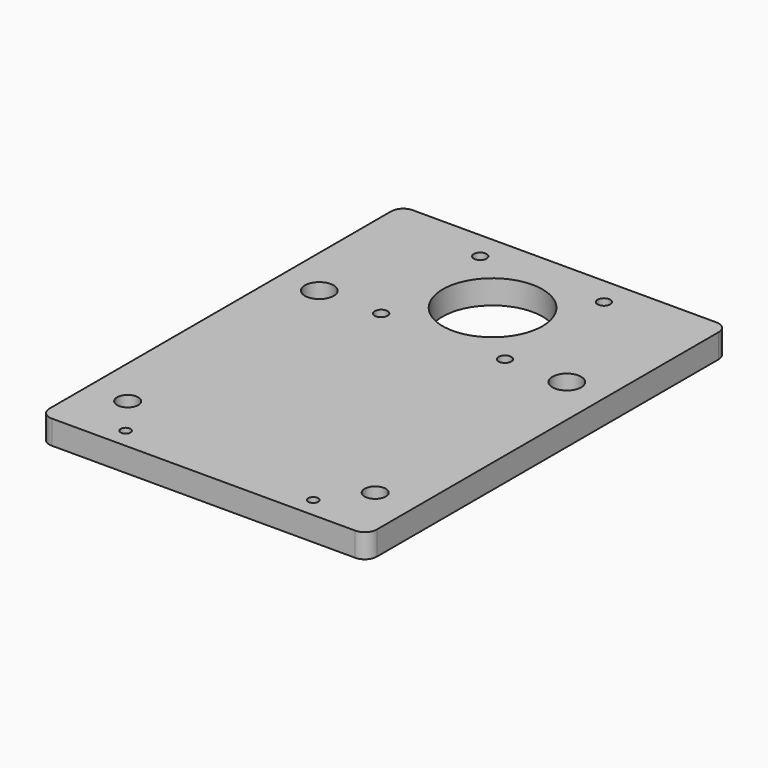
from build123d import *

# Parameters (mm, degrees)
PAD010_DEPTH    = 6
SKETCH047_R     = 1.6
HOLE028_DEPTH   = 25
SKETCH050_R     = 12.5
POCKET006_DEPTH = 6.001
SKETCH048_R     = 3.6
HOLE029_DEPTH   = 25
SKETCH049_R     = 2.65
HOLE030_DEPTH   = 25
SKETCH063_R     = 1.25
HOLE032_DEPTH   = 25


with BuildPart() as part:
    # Sketch060 → Pad010 (new body)
    with BuildSketch(Plane.XY):
        with BuildLine():
            Line((-38, -8.985199), (38, -8.985199))
            ThreePointArc((41, -11.985199), (40.12132, -9.863879), (38, -8.985199))
            Line((41, -11.985199), (41, -119))
            ThreePointArc((38, -122), (40.12132, -121.12132), (41, -119))
            Line((38, -122), (-38, -122))
            ThreePointArc((-41, -119), (-40.12132, -121.12132), (-38, -122))
            Line((-41, -119), (-41, -11.985199))
            ThreePointArc((-38, -8.985199), (-40.12132, -9.863879), (-41, -11.985199))
        make_face()
    extrude(amount=PAD010_DEPTH)

    # Sketch047 (on Face10 of Pad010) → Hole028 (cut)
    with BuildSketch(Plane.XY.offset(6)):
        with Locations((-15.5, -16)):
            Circle(SKETCH047_R)
        with Locations((-15.5, -47)):
            Circle(SKETCH047_R)
        with Locations((15.5, -16)):
            Circle(SKETCH047_R)
        with Locations((15.5, -47)):
            Circle(SKETCH047_R)
    extrude(amount=-HOLE028_DEPTH, mode=Mode.SUBTRACT)

    # Sketch050 (on Face5 of Hole028) → Pocket006 (cut, through all)
    with BuildSketch(Plane.XY.offset(6)):
        with Locations((0, -31.5)):
            Circle(SKETCH050_R)
    extrude(amount=-POCKET006_DEPTH, mode=Mode.SUBTRACT)

    # Sketch048 (on Face5 of Pocket006) → Hole029 (cut)
    with BuildSketch(Plane.XY.offset(6)):
        with Locations((31, -47)):
            Circle(SKETCH048_R)
        with Locations((-31, -47)):
            Circle(SKETCH048_R)
    extrude(amount=-HOLE029_DEPTH, mode=Mode.SUBTRACT)

    # Sketch049 (on Face5 of Hole029) → Hole030 (cut)
    with BuildSketch(Plane.XY.offset(6)):
        with Locations((-31, -107)):
            Circle(SKETCH049_R)
        with Locations((31, -107)):
            Circle(SKETCH049_R)
    extrude(amount=-HOLE030_DEPTH, mode=Mode.SUBTRACT)

    # Sketch063 (on Face5 of Hole030) → Hole032 (cut)
    with BuildSketch(Plane.XY.offset(6)):
        with Locations((-23.5, -117)):
            Circle(SKETCH063_R)
        with Locations((23.5, -117)):
            Circle(SKETCH063_R)
    extrude(amount=-HOLE032_DEPTH, mode=Mode.SUBTRACT)


solid = part.part
